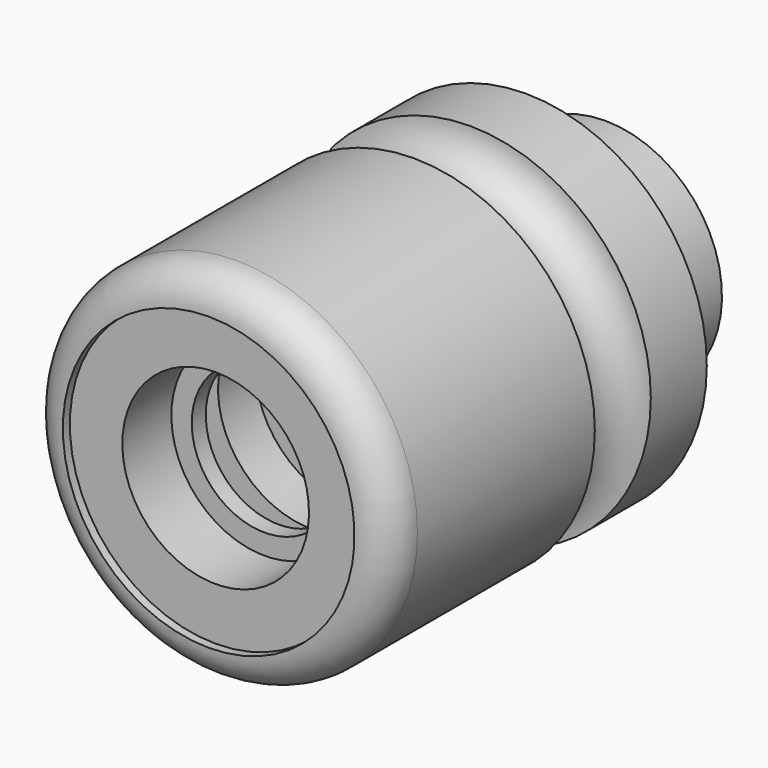
from build123d import *


with BuildPart() as f1:
    # F0 (on Right) → F1 (revolve)
    with BuildSketch(Plane.YZ):
        with BuildLine():
            ThreePointArc((6, 31), (1.757359, 29.242641), (0, 25))
            Line((0, 25), (1.5, 25))
            Line((1.5, 25), (1.5, 16))
            Line((1.5, 16), (12, 16))
            Line((12, 16), (12, 12.5))
            Line((12, 12.5), (15, 12.5))
            Line((15, 12.5), (15, 20.5))
            Line((15, 20.5), (22, 20.5))
            Line((22, 20.5), (22, 16))
            Line((22, 16), (30, 16))
            Line((30, 16), (30, 6))
            Line((30, 6), (88, 6))
            Line((88, 6), (88, 16))
            Line((88, 16), (85, 16))
            Line((85, 16), (85, 20))
            Line((85, 20), (68, 20))
            Line((68, 20), (68, 31))
            Line((68, 31), (56, 31))
            ThreePointArc((56, 31), (50, 25), (44, 31))
            Line((44, 31), (6, 31))
        make_face()
    revolve(axis=Axis((0, 44, 0), (0, 1, 0)))


solid = f1.part
